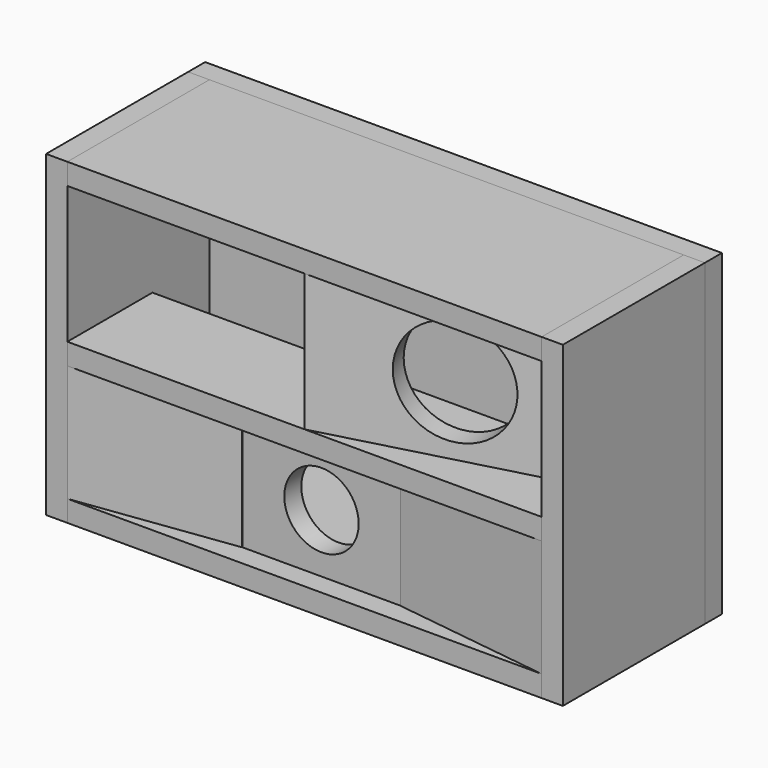
from build123d import *

# Parameters (mm, degrees)
BOX_W                  = 20
BOX_H                  = 167
BOX_DEPTH              = 299
BOX001_W               = 20
BOX001_H               = 167
BOX001_DEPTH           = 299
BOX002_W               = 446
BOX002_H               = 167
BOX002_DEPTH           = 20
BOX003_W               = 486
BOX003_H               = 20
BOX003_DEPTH           = 299
BOX004_W               = 446
BOX004_H               = 167
BOX004_DEPTH           = 20
BOX006_W               = 446
BOX006_H               = 100
BOX006_DEPTH           = 20
CYLINDER_R             = 35
CYLINDER_DEPTH         = 115
CYLINDER_ROLL_ANGLE    = 90
BOX005_W               = 149
BOX005_H               = 20
BOX005_DEPTH           = 110
BOX008_W               = 10
BOX008_H               = 23
BOX008_DEPTH           = 110
BOX009_W               = 20
BOX009_H               = 21
BOX009_DEPTH           = 110
BOX007_W               = 153
BOX007_H               = 20
BOX007_DEPTH           = 110
BOX007_PLACEMENT_ANGLE = 7.6
BOX012_W               = 10
BOX012_H               = 23
BOX012_DEPTH           = 110
BOX011_W               = 20
BOX011_H               = 21
BOX011_DEPTH           = 110
BOX010_W               = 153
BOX010_H               = 20
BOX010_DEPTH           = 110
BOX010_PLACEMENT_ANGLE = 7.6
BOX016_W               = 7
BOX016_H               = 23
BOX016_DEPTH           = 129
BOX014_W               = 10
BOX014_H               = 30
BOX014_DEPTH           = 129
CYLINDER001_R          = 50
CYLINDER001_DEPTH      = 20
CYLINDER001_ROLL_ANGLE = 90
BOX017_W               = 237
BOX017_H               = 20
BOX017_DEPTH           = 129
CUT005_PLACEMENT_ANGLE = -15


with BuildPart() as face_gauche:
    # Box → Box (new body)
    with BuildSketch(Plane(origin=(-243, -20, -214.5), x_dir=(1, 0, 0), z_dir=(0, 0, 1))):
        with Locations((10, 83.5)):
            Rectangle(BOX_W, BOX_H)
    extrude(amount=BOX_DEPTH)


with BuildPart() as face_droite:
    # Box001 → Box001 (new body)
    with BuildSketch(Plane(origin=(223, -20, -214.5), x_dir=(1, 0, 0), z_dir=(0, 0, 1))):
        with Locations((10, 83.5)):
            Rectangle(BOX001_W, BOX001_H)
    extrude(amount=BOX001_DEPTH)


with BuildPart() as face_haute:
    # Box002 → Box002 (new body)
    with BuildSketch(Plane(origin=(-223, -20, 64.5), x_dir=(1, 0, 0), z_dir=(0, 0, 1))):
        with Locations((223, 83.5)):
            Rectangle(BOX002_W, BOX002_H)
    extrude(amount=BOX002_DEPTH)


with BuildPart() as face_fond:
    # Box003 → Box003 (new body)
    with BuildSketch(Plane(origin=(-243, 147, -214.5), x_dir=(1, 0, 0), z_dir=(0, 0, 1))):
        with Locations((243, 10)):
            Rectangle(BOX003_W, BOX003_H)
    extrude(amount=BOX003_DEPTH)


with BuildPart() as obj1:
    # Box004 → Box004 (new body)
    with BuildSketch(Plane(origin=(-223, -20, -214.5), x_dir=(1, 0, 0), z_dir=(0, 0, 1))):
        with Locations((223, 83.5)):
            Rectangle(BOX004_W, BOX004_H)
    extrude(amount=BOX004_DEPTH)


with BuildPart() as obj2:
    # Box006 → Box006 (new body)
    with BuildSketch(Plane(origin=(-223, -20, -84.5), x_dir=(1, 0, 0), z_dir=(0, 0, 1))):
        with Locations((223, 50)):
            Rectangle(BOX006_W, BOX006_H)
    extrude(amount=BOX006_DEPTH)


with BuildPart() as bass_reflex:
    # Cylinder → Cylinder (new body)
    with BuildSketch(Plane.XY):
        Circle(CYLINDER_R)
    extrude(amount=CYLINDER_DEPTH)


with BuildPart() as bass_reflex_1:
    # Cylinder roll: moved
    add(bass_reflex.part.rotate(Axis((0, 0, 0), (1, 0, 0)), CYLINDER_ROLL_ANGLE))


with BuildPart() as bass_reflex_2:
    # Cylinder placement: moved
    add(bass_reflex_1.part.moved(Location((0, 115, -139.5))))


with BuildPart() as avant_bass_reflex:
    # Box005 → Box005 (new body)
    with BuildSketch(Plane(origin=(-74.5, 0, -194.5), x_dir=(1, 0, 0), z_dir=(0, 0, 1))):
        with Locations((74.5, 10)):
            Rectangle(BOX005_W, BOX005_H)
    extrude(amount=BOX005_DEPTH)

    # Cut: cut Bass Reflex
    add(bass_reflex_2.part, mode=Mode.SUBTRACT)


with BuildPart() as coupe1:
    # Box008 → Box008 (new body)
    with BuildSketch(Plane(origin=(-74.5, -1, -194.5), x_dir=(1, 0, 0), z_dir=(0, 0, 1))):
        with Locations((5, 11.5)):
            Rectangle(BOX008_W, BOX008_H)
    extrude(amount=BOX008_DEPTH)


with BuildPart() as coupe2:
    # Box009 → Box009 (new body)
    with BuildSketch(Plane(origin=(-243, -20, -194.5), x_dir=(1, 0, 0), z_dir=(0, 0, 1))):
        with Locations((10, 10.5)):
            Rectangle(BOX009_W, BOX009_H)
    extrude(amount=BOX009_DEPTH)


with BuildPart() as coupe_avant_gauche:
    # Box007 → Box007 (new body)
    with BuildSketch(Plane.XY):
        with Locations((76.5, 10)):
            Rectangle(BOX007_W, BOX007_H)
    extrude(amount=BOX007_DEPTH)


with BuildPart() as coupe_avant_gauche_1:
    # Box007 placement: moved
    add(coupe_avant_gauche.part.moved(Location((-223, -20, -194.5))).rotate(Axis((-223, -20, -194.5), (0, 0, 1)), BOX007_PLACEMENT_ANGLE))

    # Cut001: cut Coupe2
    add(coupe2.part, mode=Mode.SUBTRACT)

    # Cut002: cut Coupe1
    add(coupe1.part, mode=Mode.SUBTRACT)


with BuildPart() as coupe004:
    # Box012 → Box012 (new body)
    with BuildSketch(Plane(origin=(-74.5, -1, -194.5), x_dir=(1, 0, 0), z_dir=(0, 0, 1))):
        with Locations((5, 11.5)):
            Rectangle(BOX012_W, BOX012_H)
    extrude(amount=BOX012_DEPTH)


with BuildPart() as coupe003:
    # Box011 → Box011 (new body)
    with BuildSketch(Plane(origin=(-243, -20, -194.5), x_dir=(1, 0, 0), z_dir=(0, 0, 1))):
        with Locations((10, 10.5)):
            Rectangle(BOX011_W, BOX011_H)
    extrude(amount=BOX011_DEPTH)


with BuildPart() as coupe_avant_droit:
    # Box010 → Box010 (new body)
    with BuildSketch(Plane.XY):
        with Locations((76.5, 10)):
            Rectangle(BOX010_W, BOX010_H)
    extrude(amount=BOX010_DEPTH)


with BuildPart() as coupe_avant_droit_1:
    # Box010 placement: moved
    add(coupe_avant_droit.part.moved(Location((-223, -20, -194.5))).rotate(Axis((-223, -20, -194.5), (0, 0, 1)), BOX010_PLACEMENT_ANGLE))

    # Cut004: cut Coupe003
    add(coupe003.part, mode=Mode.SUBTRACT)

    # Cut003: cut Coupe004
    add(coupe004.part, mode=Mode.SUBTRACT)


with BuildPart() as coupe_avant_droit001:
    # Part__Mirroring: instance of Coupe avant droit
    add(coupe_avant_droit_1.part.mirror(Plane(origin=(0, 0, 0), x_dir=(0, -1, 0), z_dir=(1, 0, 0))))


with BuildPart() as cube003:
    # Box016 → Box016 (new body)
    with BuildSketch(Plane(origin=(-230, 39, -64.5), x_dir=(1, 0, 0), z_dir=(0, 0, 1))):
        with Locations((3.5, 11.5)):
            Rectangle(BOX016_W, BOX016_H)
    extrude(amount=BOX016_DEPTH)


with BuildPart() as cube001:
    # Box014 → Box014 (new body)
    with BuildSketch(Plane(origin=(0, -21, -64.5), x_dir=(1, 0, 0), z_dir=(0, 0, 1))):
        with Locations((5, 15)):
            Rectangle(BOX014_W, BOX014_H)
    extrude(amount=BOX014_DEPTH)


with BuildPart() as cylindre:
    # Cylinder001 → Cylinder001 (new body)
    with BuildSketch(Plane.XY):
        Circle(CYLINDER001_R)
    extrude(amount=CYLINDER001_DEPTH)


with BuildPart() as cylindre_1:
    # Cylinder001 roll: moved
    add(cylindre.part.rotate(Axis((0, 0, 0), (1, 0, 0)), CYLINDER001_ROLL_ANGLE))


with BuildPart() as cylindre_2:
    # Cylinder001 placement: moved
    add(cylindre_1.part.moved(Location((5, 20, 0))))


with BuildPart() as obj3:
    # Box017 → Box017 (new body)
    with BuildSketch(Plane(origin=(-110.5, 0, -64.5), x_dir=(1, 0, 0), z_dir=(0, 0, 1))):
        with Locations((118.5, 10)):
            Rectangle(BOX017_W, BOX017_H)
    extrude(amount=BOX017_DEPTH)

    # Cut005: cut Cylindre
    add(cylindre_2.part, mode=Mode.SUBTRACT)


with BuildPart() as obj3_1:
    # Cut005 placement: moved
    add(obj3.part.moved(Location((-121.5, 12.56, 0))).rotate(Axis((-121.5, 12.56, 0), (0, 0, 1)), CUT005_PLACEMENT_ANGLE))

    # Cut006: cut Cube001
    add(cube001.part, mode=Mode.SUBTRACT)

    # Cut007: cut Cube003
    add(cube003.part, mode=Mode.SUBTRACT)


with BuildPart() as obj4:
    # Part__Mirroring001: instance of obj3
    add(obj3_1.part.mirror(Plane(origin=(0, 0, 0), x_dir=(0, -1, 0), z_dir=(1, 0, 0))))


solid = Compound([face_gauche.part, face_droite.part, face_haute.part, face_fond.part, obj1.part, obj2.part, avant_bass_reflex.part, coupe_avant_gauche_1.part, coupe_avant_droit001.part, obj4.part])
